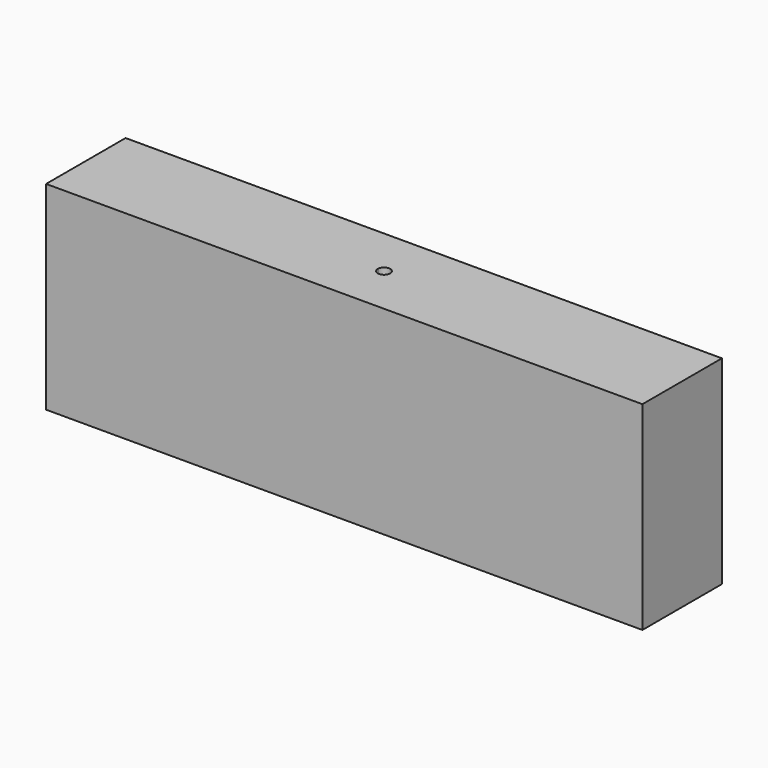
from build123d import *

# Parameters (mm, degrees)
F0_W     = 152.4
F0_H     = 50.8
F1_DEPTH = 25.4
F3_DEPTH = 50.8


with BuildPart() as f1:
    # F0 (on Front) → F1 (new body)
    with BuildSketch(Plane.XZ):
        with Locations((-79.3184274912, -60.2086835265)):
            Rectangle(F0_W, F0_H)
    extrude(amount=F1_DEPTH)

    # F2 (on face) → F3 (cut)
    with BuildSketch(Plane.XY.offset(-34.8086835265)):
        with BuildLine():
            Line((-77.7525271371, -12.4390166077), (-79.3184274912, -12.7))
            Line((-79.3184274912, -12.7), (-77.7525271371, -12.9609833923))
            ThreePointArc((-77.7525271371, -12.9609833923), (-77.736336618, -12.8309378438), (-77.7309274912, -12.7))
            ThreePointArc((-77.7309274912, -12.7), (-77.736336618, -12.5690621562), (-77.7525271371, -12.4390166077))
        make_face()
        with BuildLine():
            ThreePointArc((-77.7525271371, -12.4390166077), (-79.3184274912, -11.1125), (-80.8843278453, -12.4390166077))
            Line((-80.8843278453, -12.4390166077), (-79.3184274912, -12.7))
            Line((-79.3184274912, -12.7), (-77.7525271371, -12.4390166077))
        make_face()
        with BuildLine():
            Line((-79.3184274912, -12.7), (-80.8843278453, -12.4390166077))
            ThreePointArc((-80.8843278453, -12.4390166077), (-80.9059274912, -12.7), (-80.8843278453, -12.9609833923))
            Line((-80.8843278453, -12.9609833923), (-79.3184274912, -12.7))
        make_face()
        with BuildLine():
            Line((-77.7525271371, -12.9609833923), (-79.3184274912, -12.7))
            Line((-79.3184274912, -12.7), (-80.8843278453, -12.9609833923))
            ThreePointArc((-80.8843278453, -12.9609833923), (-79.3184274912, -14.2875), (-77.7525271371, -12.9609833923))
        make_face()
    extrude(amount=-F3_DEPTH, mode=Mode.SUBTRACT)


solid = f1.part
